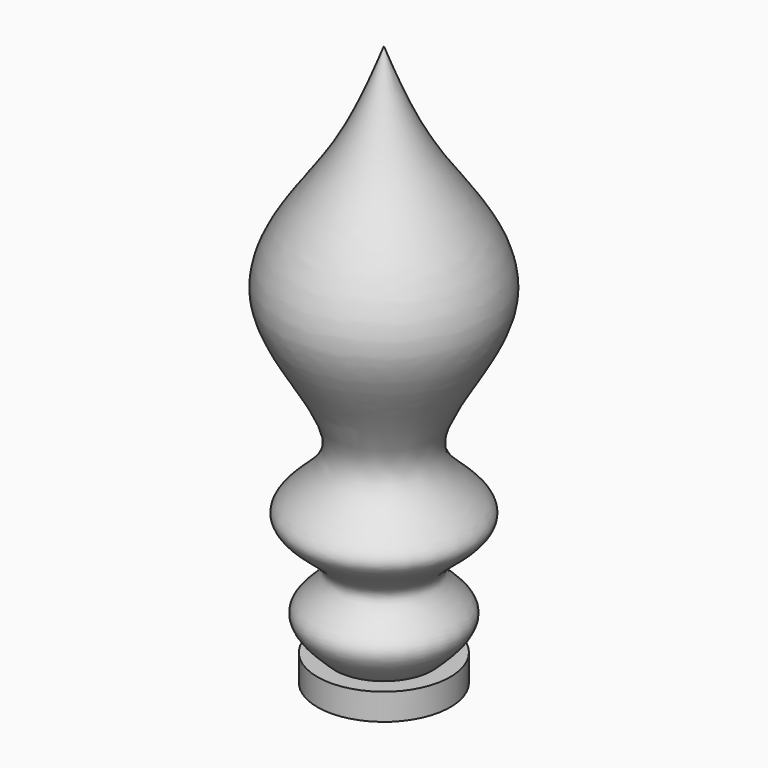
from build123d import *


with BuildPart() as f1:
    # F0 (on Front) → F1 (revolve)
    with BuildSketch(Plane.XZ):
        with BuildLine():
            Line((0, -29.0734004229), (0, 29.771162197))
            add(Edge.make_bspline(
                [(-5.1169185899, -26.2823551893), (-6.6345299498, -24.8494834813), (-9.6081231156, -22.041928378), (-2.1880480313, -18.275217186), (-13.0931922271, -13.3004862737), (-0.2069876038, -7.8265987219), (-15.7935173603, 6.6906034033), (-4.1447823096, 18.8882811023), (-1.3420033812, 26.2474878191), (0, 29.771162197)],
                knots=[0, 0, 0, 0, 0.107350316, 0.2103411811, 0.3332629298, 0.4629897889, 0.6514284618, 0.8330998645, 1, 1, 1, 1], degree=3))
            Line((-5.1169185899, -26.2823551893), (-6.977615878, -26.2823551893))
            Line((-6.977615878, -26.2823551893), (-6.977615878, -29.0734004229))
            Line((-6.977615878, -29.0734004229), (0, -29.0734004229))
        make_face()
    revolve(axis=Axis((0, 0, 0.348880887), (0, 0, -1)))


solid = f1.part
